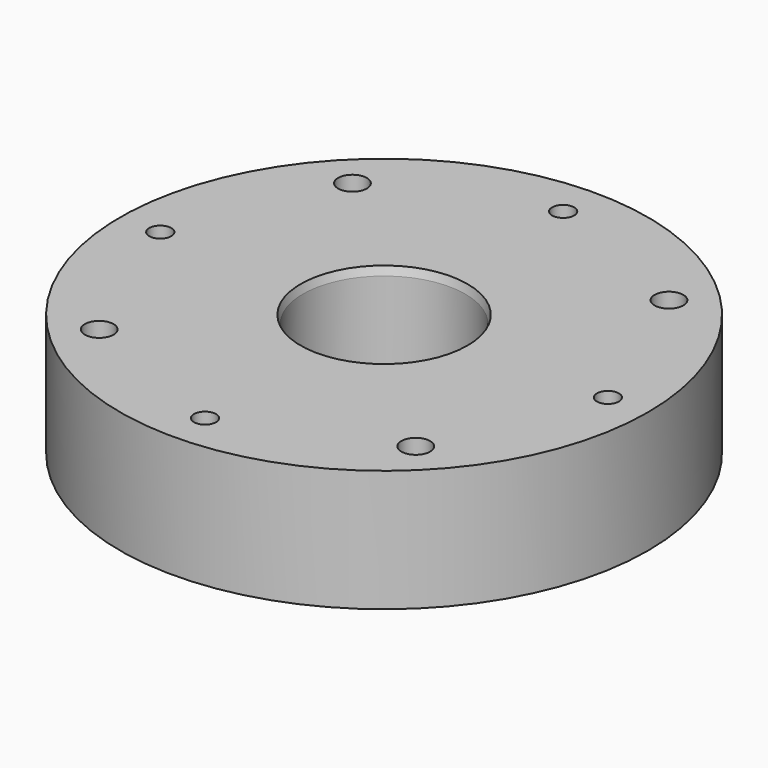
from build123d import *

# Parameters (mm, degrees)
F0_R      = 41.275
F0_R_2    = 12.7
F1_DEPTH  = 19.05
F2_SIZE2  = 0.3402954744
F2_SIZE   = 1.27
F4_D      = 3.4544
F4_DEPTH  = 11.43
F4_TIP    = 1.0378064612
F6_D      = 3.4544
F6_DEPTH  = 15.24
F6_TIP    = 1.0378064612
F8_D      = 4.4958
F9_R      = 28.0416
F9_R_2    = 22.7076
F10_DEPTH = 2.6924
F11_R     = 0.7874


with BuildPart() as f1:
    # F0 (on Top) → F1 (new body)
    with BuildSketch(Plane.XY):
        Circle(F0_R)
        Circle(F0_R_2, mode=Mode.SUBTRACT)
    extrude(amount=F1_DEPTH)

    # F2
    f2_edges = [f1.edges().sort_by_distance(p)[0] for p in [
        (-12.7, 0, 19.05),
        (-12.7, 0, 0),
    ]]
    f2_side = f1.faces().sort_by_distance((-12.7, 0, 9.525))[0]
    chamfer(f2_edges, length=F2_SIZE, length2=F2_SIZE2, reference=f2_side)

    # F4
    with Locations(Plane(origin=(0, 0, 0), x_dir=(1, 0, 0), z_dir=(0, 0, -1))):
        with Locations((0, -17.78), (-17.78, 0), (0, 17.78), (17.78, 0)):
            Hole(F4_D / 2, depth=F4_DEPTH)
            with Locations((0, 0, -(F4_DEPTH + F4_TIP / 2))):  # 118° drill point
                Cone(0, F4_D / 2, F4_TIP, mode=Mode.SUBTRACT)

    # F6
    with Locations(Plane.XY.offset(19.05)):
        with Locations((35, 0), (0, -35), (-35, 0), (0, 35)):
            Hole(F6_D / 2, depth=F6_DEPTH)
            with Locations((0, 0, -(F6_DEPTH + F6_TIP / 2))):  # 118° drill point
                Cone(0, F6_D / 2, F6_TIP, mode=Mode.SUBTRACT)

    # F8 (through all)
    with Locations(Plane.XY.offset(19.05)):
        with Locations((24.7487373415, -24.7487373415), (-24.7487373415, -24.7487373415), (-24.7487373415, 24.7487373415), (24.7487373415, 24.7487373415)):
            Hole(F8_D / 2)

    # F9 (on face) → F10 (cut)
    with BuildSketch(Plane(origin=(0, 0, 0), x_dir=(1, 0, 0), z_dir=(0, 0, -1))):
        Circle(F9_R)
        Circle(F9_R_2, mode=Mode.SUBTRACT)
    extrude(amount=-F10_DEPTH, mode=Mode.SUBTRACT)

    # F11
    f11_edges = [f1.edges().sort_by_distance(p)[0] for p in [
        (-22.7076, 0, 2.6924),
        (-28.0416, 0, 2.6924),
    ]]
    fillet(f11_edges, radius=F11_R)


solid = f1.part
